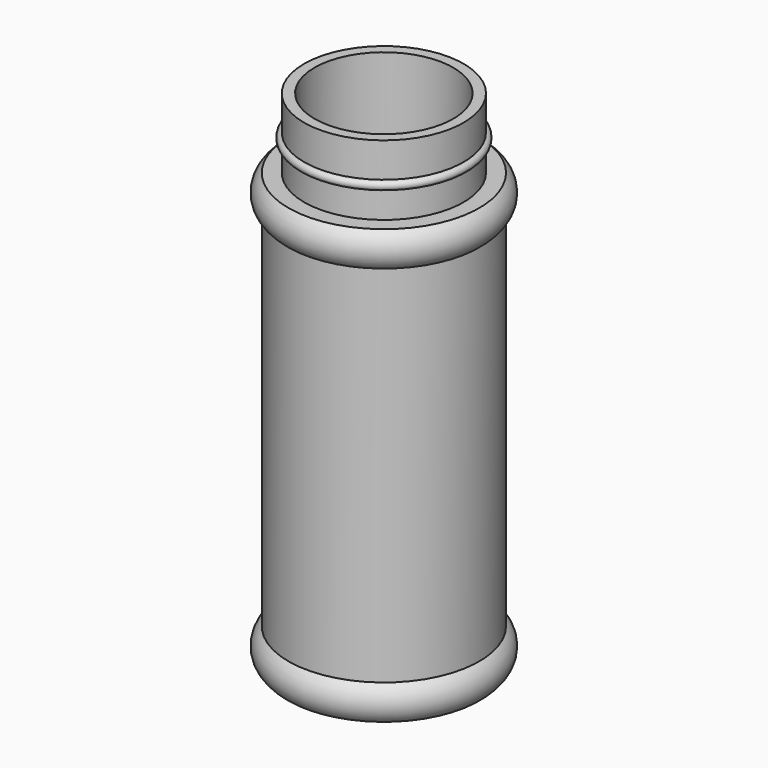
from build123d import *

# Parameters (mm, degrees)
F3_DEPTH = 20.574


with BuildPart() as f1:
    # F0 (on Front) → F1 (revolve)
    with BuildSketch(Plane.XZ):
        with BuildLine():
            Line((-23.350834, 63.5), (-27.94, 63.5))
            ThreePointArc((-27.94, 63.5), (-30.48, 58.42), (-27.94, 53.34))
            Line((-27.94, 53.34), (-27.94, -53.34))
            ThreePointArc((-27.94, -53.34), (-30.48, -58.42), (-27.94, -63.5))
            Line((-27.94, -63.5), (0, -63.5))
            Line((0, -63.5), (0, -60.452))
            Line((0, -60.452), (-24.892, -60.452))
            Line((-24.892, -60.452), (-24.892, 54.112404))
            Line((-24.892, 54.112404), (-24.892, 60.452))
            Line((-24.892, 60.452), (-20.302834, 60.452))
            Line((-20.302834, 60.452), (-20.302834, 62.786241))
            Line((-20.302834, 62.786241), (-20.302834, 84.008004))
            Line((-20.302834, 84.008004), (-23.350834, 84.008004))
            Line((-23.350834, 84.008004), (-23.350834, 73.848004))
            ThreePointArc((-23.350834, 73.848004), (-24.620834, 72.578004), (-23.350834, 71.308004))
            Line((-23.350834, 71.308004), (-23.350834, 63.5))
        make_face()
    revolve(axis=Axis((0, 0, 10.254002), (0, 0, -1)))

    # F2 (on Front) → F3 (cut, symmetric)
    with BuildSketch(Plane.XZ):
        with BuildLine():
            ThreePointArc((-27.94, -53.34), (-25.810259, 0), (-27.94, 53.34))
            Line((-27.94, 53.34), (-30.737855, 53.34))
            Line((-30.737855, 53.34), (-31.303632, -53.34))
            Line((-31.303632, -53.34), (-27.94, -53.34))
        make_face()
    extrude(amount=F3_DEPTH, both=True, mode=Mode.SUBTRACT)


solid = f1.part
